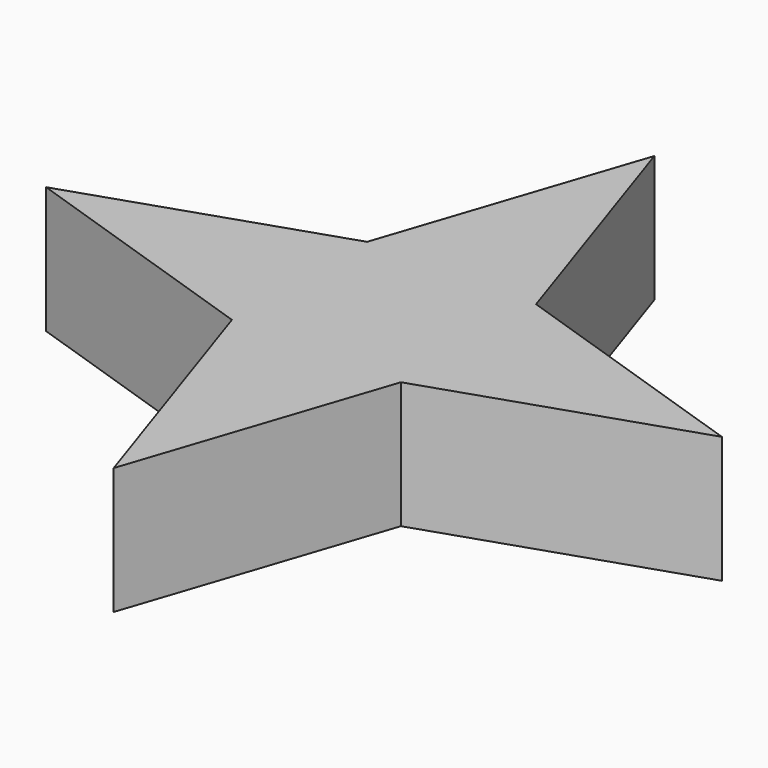
from build123d import *

# Parameters (mm, degrees)
PAD_DEPTH = 15


with BuildPart() as part:
    # Sketch → Pad (new body)
    with BuildSketch(Plane.XY):
        Polygon((-10, 10), (0, 40), (10, 10), (40, 0), (10, -10), (0, -40), (-10, -10), (-40, 0), align=None)
    extrude(amount=PAD_DEPTH)


solid = part.part
